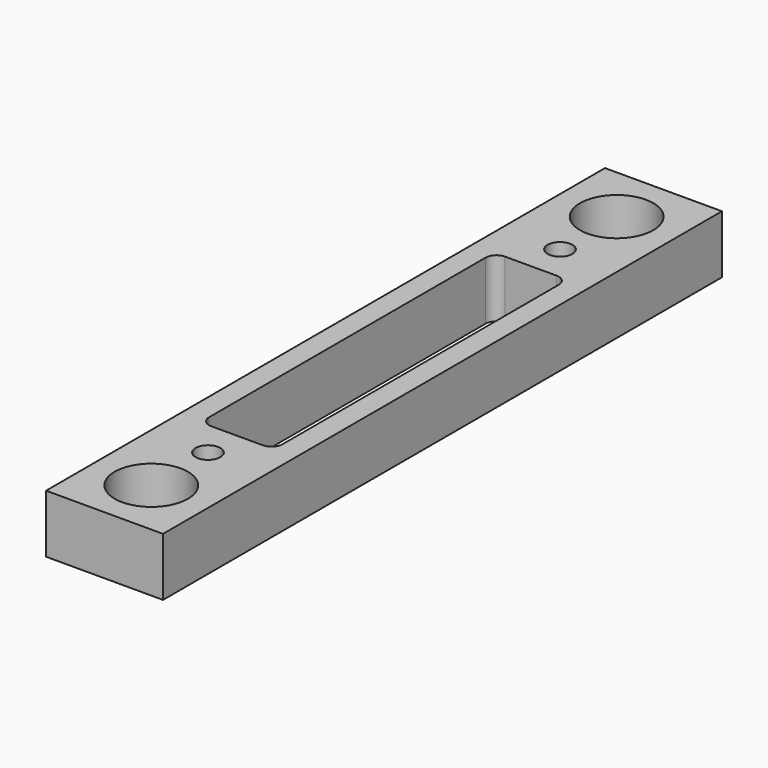
from build123d import *

# Parameters (mm, degrees)
F0_W     = 12.7625
F0_H     = 76.2625
F0_R     = 4
F0_R_2   = 1.35255
F0_W_2   = 8
F0_H_2   = 40.0949
F1_DEPTH = 6.35
F2_R     = 1.190625
F3_SIZE  = 0.254


with BuildPart() as f1:
    # F0 (on Top) → F1 (new body)
    with BuildSketch(Plane.XY):
        Rectangle(F0_W, F0_H)
        with Locations((0, -31.75)):
            Circle(F0_R, mode=Mode.SUBTRACT)
        with Locations((0, -24.0162)):
            Circle(F0_R_2, mode=Mode.SUBTRACT)
        Rectangle(F0_W_2, F0_H_2, mode=Mode.SUBTRACT)
        with Locations((0, 24.0162)):
            Circle(F0_R_2, mode=Mode.SUBTRACT)
        with Locations((0, 31.75)):
            Circle(F0_R, mode=Mode.SUBTRACT)
    extrude(amount=F1_DEPTH)

    # F2
    f2_edges = [f1.edges().sort_by_distance(p)[0] for p in [
        (-4, 20.04745, 3.175),
        (4, 20.04745, 3.175),
        (4, -20.04745, 3.175),
        (-4, -20.04745, 3.175),
    ]]
    fillet(f2_edges, radius=F2_R)

    # F3
    f3_edges = [f1.edges().sort_by_distance(p)[0] for p in [
        (-4, 31.75, 0),
        (-4, -31.75, 0),
    ]]
    chamfer(f3_edges, length=F3_SIZE)


solid = f1.part
